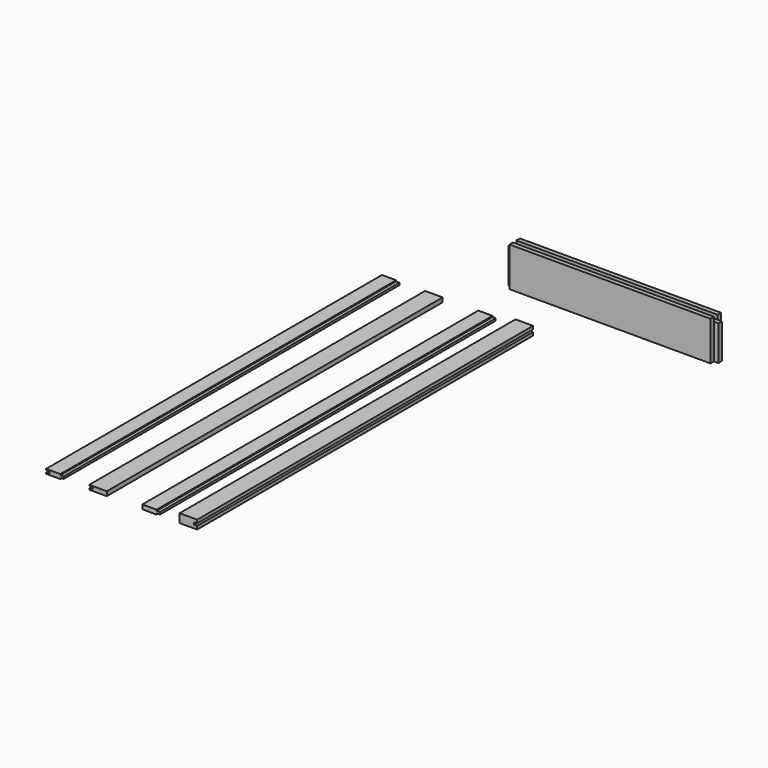
from build123d import *

# Parameters (mm, degrees)
F0_W      = 101.6
F0_H      = 50.8
F1_DEPTH  = 2438.4
F2_W      = 2438.4
F2_H      = 12.7
F3_DEPTH  = 19.05
F4_W      = 101.6
F4_H      = 25.4
F5_DEPTH  = 2438.4
F6_W      = 19.05
F6_H      = 6.35
F7_DEPTH  = 2438.4
F9_DEPTH  = 2438.4
F11_DEPTH = 2438.4
F12_W     = 1219.2
F12_H     = 228.6
F13_DEPTH = 76.2
F14_W     = 25.4
F14_H     = 25.4
F15_DEPTH = 2438.4
F16_W     = 25.4
F16_H     = 228.6
F17_DEPTH = 254
F18_W     = 25.4
F18_H     = 203.2
F19_DEPTH = 25.4
F20_W     = 25.4
F20_H     = 203.2
F21_DEPTH = 25.4


with BuildPart() as f1:
    # F0 (on Front) → F1 (new body)
    with BuildSketch(Plane.XZ):
        with Locations((50.8, 25.4)):
            Rectangle(F0_W, F0_H)
    extrude(amount=F1_DEPTH)

    # F2 (on face) → F3 (cut)
    with BuildSketch(Plane.YZ.offset(101.6)):
        with Locations((-1219.2, 25.4)):
            Rectangle(F2_W, F2_H)
    extrude(amount=-F3_DEPTH, mode=Mode.SUBTRACT)


with BuildPart() as f5:
    # F4 (on Front) → F5 (new body)
    with BuildSketch(Plane.XZ):
        with Locations((-165.54243, 12.7)):
            Rectangle(F4_W, F4_H)
    extrude(amount=F5_DEPTH)

    # F6 (on face) → F7 (cut)
    with BuildSketch(Plane.XZ.offset(2438.4)):
        with Locations((-124.26743, 22.225)):
            Rectangle(F6_W, F6_H)
        with Locations((-124.26743, 3.175)):
            Rectangle(F6_W, F6_H)
    extrude(amount=-F7_DEPTH, mode=Mode.SUBTRACT)


with BuildPart() as f9:
    # F8 (on Front) → F9 (new body)
    with BuildSketch(Plane.XZ):
        Polygon((-524.939765, 0), (-423.339765, 0), (-423.339765, 25.4), (-524.939765, 25.4), (-524.939765, 19.05), (-505.889765, 19.05), (-505.889765, 6.35), (-524.939765, 6.35), align=None)
    extrude(amount=F9_DEPTH)


with BuildPart() as f11:
    # F10 (on Front) → F11 (new body)
    with BuildSketch(Plane.XZ):
        Polygon((-775.732246, 0), (-693.182246, 0), (-693.182246, 6.35), (-674.132246, 6.35), (-674.132246, 19.05), (-693.182246, 19.05), (-693.182246, 25.4), (-775.732246, 25.4), (-775.732246, 19.05), (-756.682246, 19.05), (-756.682246, 6.35), (-775.732246, 6.35), align=None)
    extrude(amount=F11_DEPTH)


with BuildPart() as f13:
    # F12 (on Front) → F13 (new body)
    with BuildSketch(Plane.XZ):
        with Locations((609.6, 358.567115)):
            Rectangle(F12_W, F12_H)
    extrude(amount=F13_DEPTH)

    # F14 (on face) → F15 (cut)
    with BuildSketch(Plane.YZ.offset(1219.2)):
        with Locations((-38.1, 460.167115)):
            Rectangle(F14_W, F14_H)
    extrude(amount=-F15_DEPTH, mode=Mode.SUBTRACT)

    # F16 (on face) → F17 (cut)
    with BuildSketch(Plane.XZ.offset(76.2)):
        with Locations((1206.5, 358.567115)):
            Rectangle(F16_W, F16_H)
        with Locations((12.7, 358.567115)):
            Rectangle(F16_W, F16_H)
    extrude(amount=-F17_DEPTH, mode=Mode.SUBTRACT)

    # F18 (on face) → F19 (join)
    with BuildSketch(Plane(origin=(25.4, 0, 0), x_dir=(0, -1, 0), z_dir=(-1, 0, 0))):
        with Locations((38.1, 345.867115)):
            Rectangle(F18_W, F18_H)
    extrude(amount=F19_DEPTH)

    # F20 (on face) → F21 (join)
    with BuildSketch(Plane.YZ.offset(1193.8)):
        with Locations((-38.1, 345.867115)):
            Rectangle(F20_W, F20_H)
    extrude(amount=F21_DEPTH)


solid = Compound([f1.part, f5.part, f9.part, f11.part, f13.part])
